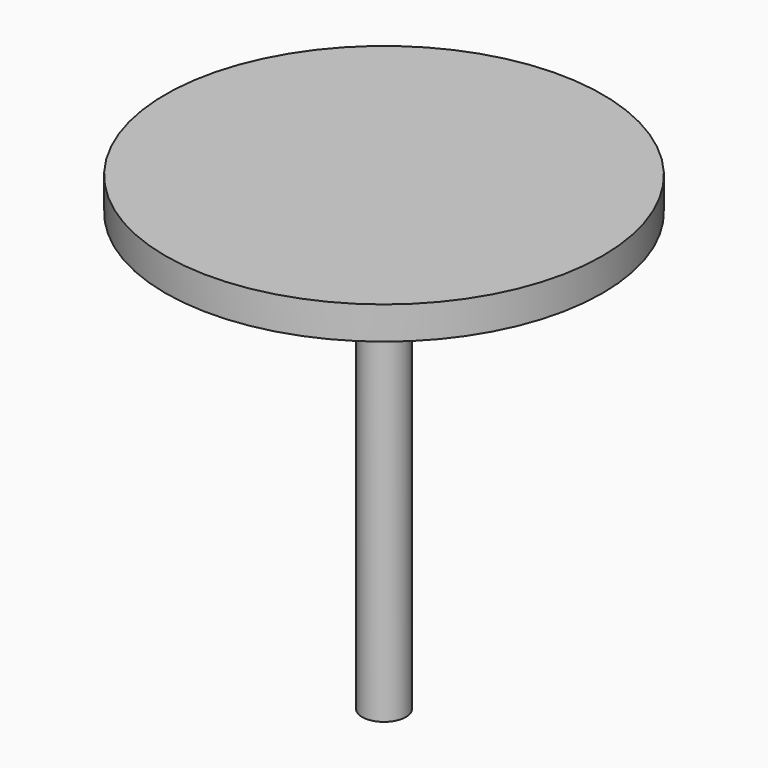
from build123d import *

# Parameters (mm, degrees)
F0_R     = 127
F1_DEPTH = 19.05
F2_R     = 12.7
F3_DEPTH = 254
F4_R     = 10.755444
F5_DEPTH = 50.8


with BuildPart() as f1:
    # F0 (on Top) → F1 (new body)
    with BuildSketch(Plane.XY):
        Circle(F0_R)
    extrude(amount=F1_DEPTH)

    # F2 (on face) → F3 (join)
    with BuildSketch(Plane(origin=(0, 0, 0), x_dir=(1, 0, 0), z_dir=(0, 0, -1))):
        Circle(F2_R)
    extrude(amount=F3_DEPTH)

    # F4 (on face) → F5 (cut)
    with BuildSketch(Plane(origin=(0, 0, -254), x_dir=(1, 0, 0), z_dir=(0, 0, -1))):
        Circle(F4_R)
    extrude(amount=-F5_DEPTH, mode=Mode.SUBTRACT)


solid = f1.part
